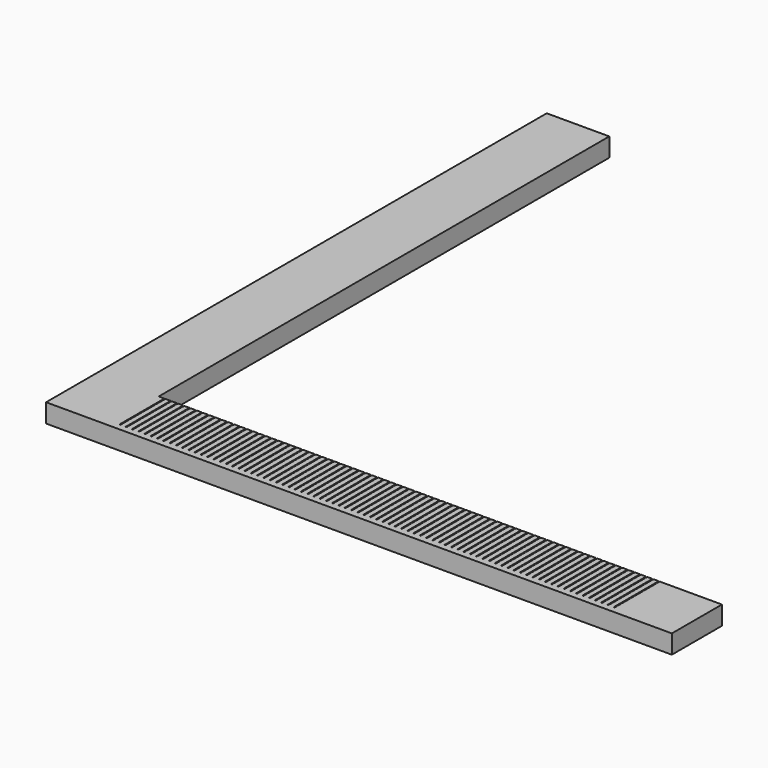
from build123d import *

# Parameters (mm, degrees)
F1_DEPTH = 3
F3_DEPTH = 9


with BuildPart() as f1:
    # F0 (on Top) → F1 (new body)
    with BuildSketch(Plane.XY):
        Polygon((0, 100), (0, 0), (100, 0), (100, 10), (10, 10), (10, 100), align=None)
    extrude(amount=F1_DEPTH)

    # F2 (on face) → F3 (cut, through all)
    with BuildSketch(Plane(origin=(0, 10, 0), x_dir=(-1, 0, 0), z_dir=(0, 1, 0))):
        with BuildLine():
            Line((-10.9, 3), (-11.1, 3))
            ThreePointArc((-11.1, 3), (-11, 2.9), (-10.9, 3))
        make_face()
        with BuildLine():
            Line((-11.9, 3), (-12.1, 3))
            ThreePointArc((-12.1, 3), (-12, 2.9), (-11.9, 3))
        make_face()
        with BuildLine():
            Line((-12.9, 3), (-13.1, 3))
            ThreePointArc((-13.1, 3), (-13, 2.9), (-12.9, 3))
        make_face()
        with BuildLine():
            Line((-13.9, 3), (-14.1, 3))
            ThreePointArc((-14.1, 3), (-14, 2.9), (-13.9, 3))
        make_face()
        with BuildLine():
            Line((-14.9, 3), (-15.1, 3))
            ThreePointArc((-15.1, 3), (-15, 2.9), (-14.9, 3))
        make_face()
        with BuildLine():
            Line((-15.9, 3), (-16.1, 3))
            ThreePointArc((-16.1, 3), (-16, 2.9), (-15.9, 3))
        make_face()
        with BuildLine():
            Line((-16.9, 3), (-17.1, 3))
            ThreePointArc((-17.1, 3), (-17, 2.9), (-16.9, 3))
        make_face()
        with BuildLine():
            Line((-17.9, 3), (-18.1, 3))
            ThreePointArc((-18.1, 3), (-18, 2.9), (-17.9, 3))
        make_face()
        with BuildLine():
            Line((-18.9, 3), (-19.1, 3))
            ThreePointArc((-19.1, 3), (-19, 2.9), (-18.9, 3))
        make_face()
        with BuildLine():
            Line((-19.9, 3), (-20.1, 3))
            ThreePointArc((-20.1, 3), (-20, 2.9), (-19.9, 3))
        make_face()
        with BuildLine():
            Line((-20.9, 3), (-21.1, 3))
            ThreePointArc((-21.1, 3), (-21, 2.9), (-20.9, 3))
        make_face()
        with BuildLine():
            Line((-21.9, 3), (-22.1, 3))
            ThreePointArc((-22.1, 3), (-22, 2.9), (-21.9, 3))
        make_face()
        with BuildLine():
            Line((-22.9, 3), (-23.1, 3))
            ThreePointArc((-23.1, 3), (-23, 2.9), (-22.9, 3))
        make_face()
        with BuildLine():
            Line((-23.9, 3), (-24.1, 3))
            ThreePointArc((-24.1, 3), (-24, 2.9), (-23.9, 3))
        make_face()
        with BuildLine():
            Line((-24.9, 3), (-25.1, 3))
            ThreePointArc((-25.1, 3), (-25, 2.9), (-24.9, 3))
        make_face()
        with BuildLine():
            Line((-25.9, 3), (-26.1, 3))
            ThreePointArc((-26.1, 3), (-26, 2.9), (-25.9, 3))
        make_face()
        with BuildLine():
            Line((-26.9, 3), (-27.1, 3))
            ThreePointArc((-27.1, 3), (-27, 2.9), (-26.9, 3))
        make_face()
        with BuildLine():
            Line((-27.9, 3), (-28.1, 3))
            ThreePointArc((-28.1, 3), (-28, 2.9), (-27.9, 3))
        make_face()
        with BuildLine():
            Line((-28.9, 3), (-29.1, 3))
            ThreePointArc((-29.1, 3), (-29, 2.9), (-28.9, 3))
        make_face()
        with BuildLine():
            Line((-29.9, 3), (-30.1, 3))
            ThreePointArc((-30.1, 3), (-30, 2.9), (-29.9, 3))
        make_face()
        with BuildLine():
            Line((-30.9, 3), (-31.1, 3))
            ThreePointArc((-31.1, 3), (-31, 2.9), (-30.9, 3))
        make_face()
        with BuildLine():
            Line((-31.9, 3), (-32.1, 3))
            ThreePointArc((-32.1, 3), (-32, 2.9), (-31.9, 3))
        make_face()
        with BuildLine():
            Line((-32.9, 3), (-33.1, 3))
            ThreePointArc((-33.1, 3), (-33, 2.9), (-32.9, 3))
        make_face()
        with BuildLine():
            Line((-33.9, 3), (-34.1, 3))
            ThreePointArc((-34.1, 3), (-34, 2.9), (-33.9, 3))
        make_face()
        with BuildLine():
            Line((-34.9, 3), (-35.1, 3))
            ThreePointArc((-35.1, 3), (-35, 2.9), (-34.9, 3))
        make_face()
        with BuildLine():
            Line((-35.9, 3), (-36.1, 3))
            ThreePointArc((-36.1, 3), (-36, 2.9), (-35.9, 3))
        make_face()
        with BuildLine():
            Line((-36.9, 3), (-37.1, 3))
            ThreePointArc((-37.1, 3), (-37, 2.9), (-36.9, 3))
        make_face()
        with BuildLine():
            Line((-37.9, 3), (-38.1, 3))
            ThreePointArc((-38.1, 3), (-38, 2.9), (-37.9, 3))
        make_face()
        with BuildLine():
            Line((-38.9, 3), (-39.1, 3))
            ThreePointArc((-39.1, 3), (-39, 2.9), (-38.9, 3))
        make_face()
        with BuildLine():
            Line((-39.9, 3), (-40.1, 3))
            ThreePointArc((-40.1, 3), (-40, 2.9), (-39.9, 3))
        make_face()
        with BuildLine():
            Line((-40.9, 3), (-41.1, 3))
            ThreePointArc((-41.1, 3), (-41, 2.9), (-40.9, 3))
        make_face()
        with BuildLine():
            Line((-41.9, 3), (-42.1, 3))
            ThreePointArc((-42.1, 3), (-42, 2.9), (-41.9, 3))
        make_face()
        with BuildLine():
            Line((-42.9, 3), (-43.1, 3))
            ThreePointArc((-43.1, 3), (-43, 2.9), (-42.9, 3))
        make_face()
        with BuildLine():
            Line((-43.9, 3), (-44.1, 3))
            ThreePointArc((-44.1, 3), (-44, 2.9), (-43.9, 3))
        make_face()
        with BuildLine():
            Line((-44.9, 3), (-45.1, 3))
            ThreePointArc((-45.1, 3), (-45, 2.9), (-44.9, 3))
        make_face()
        with BuildLine():
            Line((-45.9, 3), (-46.1, 3))
            ThreePointArc((-46.1, 3), (-46, 2.9), (-45.9, 3))
        make_face()
        with BuildLine():
            Line((-46.9, 3), (-47.1, 3))
            ThreePointArc((-47.1, 3), (-47, 2.9), (-46.9, 3))
        make_face()
        with BuildLine():
            Line((-47.9, 3), (-48.1, 3))
            ThreePointArc((-48.1, 3), (-48, 2.9), (-47.9, 3))
        make_face()
        with BuildLine():
            Line((-48.9, 3), (-49.1, 3))
            ThreePointArc((-49.1, 3), (-49, 2.9), (-48.9, 3))
        make_face()
        with BuildLine():
            Line((-49.9, 3), (-50.1, 3))
            ThreePointArc((-50.1, 3), (-50, 2.9), (-49.9, 3))
        make_face()
        with BuildLine():
            Line((-50.9, 3), (-51.1, 3))
            ThreePointArc((-51.1, 3), (-51, 2.9), (-50.9, 3))
        make_face()
        with BuildLine():
            Line((-51.9, 3), (-52.1, 3))
            ThreePointArc((-52.1, 3), (-52, 2.9), (-51.9, 3))
        make_face()
        with BuildLine():
            Line((-52.9, 3), (-53.1, 3))
            ThreePointArc((-53.1, 3), (-53, 2.9), (-52.9, 3))
        make_face()
        with BuildLine():
            Line((-53.9, 3), (-54.1, 3))
            ThreePointArc((-54.1, 3), (-54, 2.9), (-53.9, 3))
        make_face()
        with BuildLine():
            Line((-54.9, 3), (-55.1, 3))
            ThreePointArc((-55.1, 3), (-55, 2.9), (-54.9, 3))
        make_face()
        with BuildLine():
            Line((-55.9, 3), (-56.1, 3))
            ThreePointArc((-56.1, 3), (-56, 2.9), (-55.9, 3))
        make_face()
        with BuildLine():
            Line((-56.9, 3), (-57.1, 3))
            ThreePointArc((-57.1, 3), (-57, 2.9), (-56.9, 3))
        make_face()
        with BuildLine():
            Line((-57.9, 3), (-58.1, 3))
            ThreePointArc((-58.1, 3), (-58, 2.9), (-57.9, 3))
        make_face()
        with BuildLine():
            Line((-58.9, 3), (-59.1, 3))
            ThreePointArc((-59.1, 3), (-59, 2.9), (-58.9, 3))
        make_face()
        with BuildLine():
            Line((-59.9, 3), (-60.1, 3))
            ThreePointArc((-60.1, 3), (-60, 2.9), (-59.9, 3))
        make_face()
        with BuildLine():
            Line((-60.9, 3), (-61.1, 3))
            ThreePointArc((-61.1, 3), (-61, 2.9), (-60.9, 3))
        make_face()
        with BuildLine():
            Line((-61.9, 3), (-62.1, 3))
            ThreePointArc((-62.1, 3), (-62, 2.9), (-61.9, 3))
        make_face()
        with BuildLine():
            Line((-62.9, 3), (-63.1, 3))
            ThreePointArc((-63.1, 3), (-63, 2.9), (-62.9, 3))
        make_face()
        with BuildLine():
            Line((-63.9, 3), (-64.1, 3))
            ThreePointArc((-64.1, 3), (-64, 2.9), (-63.9, 3))
        make_face()
        with BuildLine():
            Line((-64.9, 3), (-65.1, 3))
            ThreePointArc((-65.1, 3), (-65, 2.9), (-64.9, 3))
        make_face()
        with BuildLine():
            Line((-65.9, 3), (-66.1, 3))
            ThreePointArc((-66.1, 3), (-66, 2.9), (-65.9, 3))
        make_face()
        with BuildLine():
            Line((-66.9, 3), (-67.1, 3))
            ThreePointArc((-67.1, 3), (-67, 2.9), (-66.9, 3))
        make_face()
        with BuildLine():
            Line((-67.9, 3), (-68.1, 3))
            ThreePointArc((-68.1, 3), (-68, 2.9), (-67.9, 3))
        make_face()
        with BuildLine():
            Line((-68.9, 3), (-69.1, 3))
            ThreePointArc((-69.1, 3), (-69, 2.9), (-68.9, 3))
        make_face()
        with BuildLine():
            Line((-69.9, 3), (-70.1, 3))
            ThreePointArc((-70.1, 3), (-70, 2.9), (-69.9, 3))
        make_face()
        with BuildLine():
            Line((-70.9, 3), (-71.1, 3))
            ThreePointArc((-71.1, 3), (-71, 2.9), (-70.9, 3))
        make_face()
        with BuildLine():
            Line((-71.9, 3), (-72.1, 3))
            ThreePointArc((-72.1, 3), (-72, 2.9), (-71.9, 3))
        make_face()
        with BuildLine():
            Line((-72.9, 3), (-73.1, 3))
            ThreePointArc((-73.1, 3), (-73, 2.9), (-72.9, 3))
        make_face()
        with BuildLine():
            Line((-73.9, 3), (-74.1, 3))
            ThreePointArc((-74.1, 3), (-74, 2.9), (-73.9, 3))
        make_face()
        with BuildLine():
            Line((-74.9, 3), (-75.1, 3))
            ThreePointArc((-75.1, 3), (-75, 2.9), (-74.9, 3))
        make_face()
        with BuildLine():
            Line((-75.9, 3), (-76.1, 3))
            ThreePointArc((-76.1, 3), (-76, 2.9), (-75.9, 3))
        make_face()
        with BuildLine():
            Line((-76.9, 3), (-77.1, 3))
            ThreePointArc((-77.1, 3), (-77, 2.9), (-76.9, 3))
        make_face()
        with BuildLine():
            Line((-77.9, 3), (-78.1, 3))
            ThreePointArc((-78.1, 3), (-78, 2.9), (-77.9, 3))
        make_face()
        with BuildLine():
            Line((-78.9, 3), (-79.1, 3))
            ThreePointArc((-79.1, 3), (-79, 2.9), (-78.9, 3))
        make_face()
        with BuildLine():
            Line((-79.9, 3), (-80.1, 3))
            ThreePointArc((-80.1, 3), (-80, 2.9), (-79.9, 3))
        make_face()
        with BuildLine():
            Line((-80.9, 3), (-81.1, 3))
            ThreePointArc((-81.1, 3), (-81, 2.9), (-80.9, 3))
        make_face()
        with BuildLine():
            Line((-81.9, 3), (-82.1, 3))
            ThreePointArc((-82.1, 3), (-82, 2.9), (-81.9, 3))
        make_face()
        with BuildLine():
            Line((-82.9, 3), (-83.1, 3))
            ThreePointArc((-83.1, 3), (-83, 2.9), (-82.9, 3))
        make_face()
        with BuildLine():
            Line((-83.9, 3), (-84.1, 3))
            ThreePointArc((-84.1, 3), (-84, 2.9), (-83.9, 3))
        make_face()
        with BuildLine():
            Line((-84.9, 3), (-85.1, 3))
            ThreePointArc((-85.1, 3), (-85, 2.9), (-84.9, 3))
        make_face()
        with BuildLine():
            Line((-85.9, 3), (-86.1, 3))
            ThreePointArc((-86.1, 3), (-86, 2.9), (-85.9, 3))
        make_face()
        with BuildLine():
            Line((-86.9, 3), (-87.1, 3))
            ThreePointArc((-87.1, 3), (-87, 2.9), (-86.9, 3))
        make_face()
        with BuildLine():
            Line((-87.9, 3), (-88.1, 3))
            ThreePointArc((-88.1, 3), (-88, 2.9), (-87.9, 3))
        make_face()
        with BuildLine():
            Line((-88.9, 3), (-89.1, 3))
            ThreePointArc((-89.1, 3), (-89, 2.9), (-88.9, 3))
        make_face()
        with BuildLine():
            Line((-89.9, 3), (-90.1, 3))
            ThreePointArc((-90.1, 3), (-90, 2.9), (-89.9, 3))
        make_face()
    extrude(amount=-F3_DEPTH, mode=Mode.SUBTRACT)


solid = f1.part
